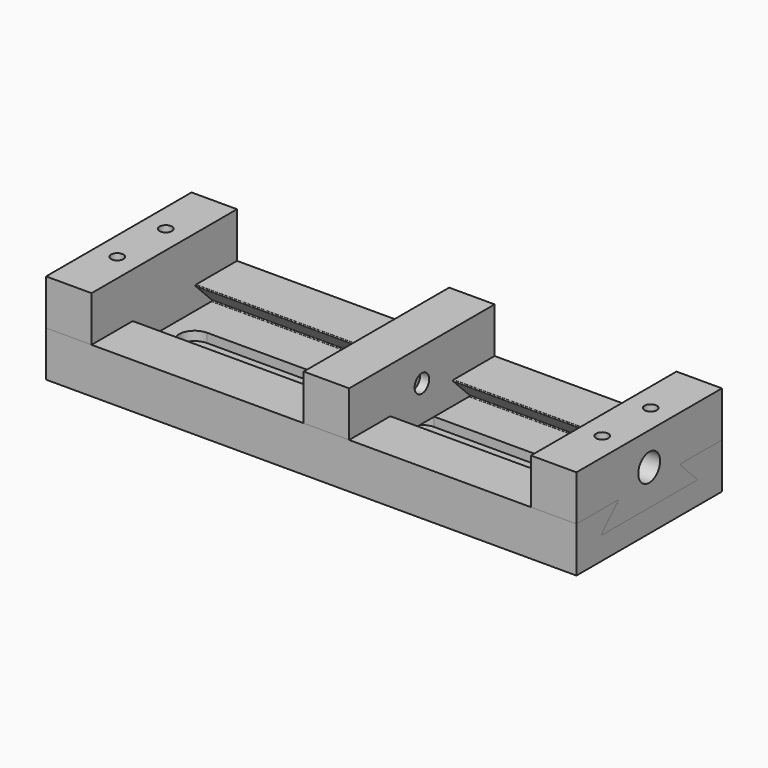
from build123d import *

# Parameters (mm, degrees)
F0_W      = 175
F0_H      = 60
F1_DEPTH  = 15
F3_DEPTH  = 175.001
F4_R      = 0.25
F6_DEPTH  = 15
F7_R      = 4.5
F8_DEPTH  = 175.001
F10_DEPTH = 15
F13_DEPTH = 15
F14_R     = 3
F15_DEPTH = 3
F16_R     = 2.05
F17_DEPTH = 22.5
F18_R     = 2.05
F19_DEPTH = 22.5
F20_R     = 5.25
F20_R_2   = 2.05
F21_DEPTH = 3
F22_R     = 5.25
F22_R_2   = 2.05
F23_DEPTH = 3
F24_R     = 5
F24_R_2   = 2.05
F25_DEPTH = 2.5
F27_DEPTH = 25
F29_DEPTH = 3


with BuildPart() as f1:
    # F0 (on Top) → F1 (new body)
    with BuildSketch(Plane.XY):
        Rectangle(F0_W, F0_H)
    extrude(amount=F1_DEPTH)

    # F2 (on face) → F3 (cut, through all)
    with BuildSketch(Plane.YZ.offset(87.5)):
        Polygon((-12.5, 15), (-20, 7.5), (20, 7.5), (12.5, 15), align=None)
        Polygon((-8.8884221898, 18.6115778102), (-12.5, 15), (12.5, 15), (9.7629078865, 17.7370921135), align=None)
    extrude(amount=-F3_DEPTH, mode=Mode.SUBTRACT)

    # F4
    f4_edges = [f1.edges().sort_by_distance(p)[0] for p in [
        (0, -20, 7.5),
        (0, 20, 7.5),
        (0, 12.5, 15),
        (0, -12.5, 15),
    ]]
    fillet(f4_edges, radius=F4_R)

    # F26 (on face) → F27 (cut)
    with BuildSketch(Plane.XY.offset(7.5)):
        with BuildLine():
            ThreePointArc((-27.5, -2.6), (-24.9, 0), (-27.5, 2.6))
            Line((-27.5, 2.6), (-62.5, 2.6))
            ThreePointArc((-62.5, 2.6), (-65.1, 0), (-62.5, -2.6))
            Line((-62.5, -2.6), (-27.5, -2.6))
        make_face()
        with BuildLine():
            ThreePointArc((12.5, 2.6), (9.9, 0), (12.5, -2.6))
            Line((12.5, -2.6), (47.5, -2.6))
            ThreePointArc((47.5, -2.6), (50.1, 0), (47.5, 2.6))
            Line((47.5, 2.6), (12.5, 2.6))
        make_face()
    extrude(amount=-F27_DEPTH, mode=Mode.SUBTRACT)

    # F28 (on face) → F29 (cut)
    with BuildSketch(Plane.XY.offset(7.5)):
        with BuildLine():
            ThreePointArc((12.5, 5.1), (7.4, 0), (12.5, -5.1))
            Line((12.5, -5.1), (47.5, -5.1))
            ThreePointArc((47.5, -5.1), (52.6, 0), (47.5, 5.1))
            Line((47.5, 5.1), (12.5, 5.1))
        make_face()
        with BuildLine():
            ThreePointArc((-27.5, -5.1), (-22.4, 0), (-27.5, 5.1))
            Line((-27.5, 5.1), (-62.5, 5.1))
            ThreePointArc((-62.5, 5.1), (-67.6, 0), (-62.5, -5.1))
            Line((-62.5, -5.1), (-27.5, -5.1))
        make_face()
    extrude(amount=-F29_DEPTH, mode=Mode.SUBTRACT)


with BuildPart() as f6:
    # F5 (on face) → F6 (new body)
    with BuildSketch(Plane.YZ.offset(87.5)):
        with BuildLine():
            Line((13.1035533906, 15), (30, 15))
            Line((30, 15), (30, 30))
            Line((30, 30), (-30, 30))
            Line((-30, 30), (-30, 15))
            Line((-30, 15), (-13.1035533906, 15))
            ThreePointArc((-13.1035533906, 15), (-12.8725835075, 14.8456708581), (-12.9267766953, 14.5732233047))
            Line((-12.9267766953, 14.5732233047), (-19.5732233047, 7.9267766953))
            ThreePointArc((-19.5732233047, 7.9267766953), (-19.6274164925, 7.6543291419), (-19.3964466094, 7.5))
            Line((-19.3964466094, 7.5), (19.3964466094, 7.5))
            ThreePointArc((19.3964466094, 7.5), (19.6274164925, 7.6543291419), (19.5732233047, 7.9267766953))
            Line((19.5732233047, 7.9267766953), (12.9267766953, 14.5732233047))
            ThreePointArc((12.9267766953, 14.5732233047), (12.8725835075, 14.8456708581), (13.1035533906, 15))
        make_face()
    extrude(amount=-F6_DEPTH)

    # F7 (on face) → F8 (cut, through all)
    with BuildSketch(Plane.YZ.offset(87.5)):
        with Locations((0, 19.25)):
            Circle(F7_R)
    extrude(amount=-F8_DEPTH, mode=Mode.SUBTRACT)

    # F16 (on face) → F17 (cut, through all)
    with BuildSketch(Plane.XY.offset(30)):
        with Locations((80, 10)):
            Circle(F16_R)
        with Locations((80, -10)):
            Circle(F16_R)
    extrude(amount=-F17_DEPTH, mode=Mode.SUBTRACT)

    # F22 (on face) → F23 (cut)
    with BuildSketch(Plane(origin=(0, 0, 7.5), x_dir=(1, 0, 0), z_dir=(0, 0, -1))):
        with Locations((80, 10.0000000002)):
            Circle(F22_R)
        with Locations((80, 10)):
            Circle(F22_R_2, mode=Mode.SUBTRACT)
        with Locations((80, -9.9999999998)):
            Circle(F22_R)
        with Locations((80, -10)):
            Circle(F22_R_2, mode=Mode.SUBTRACT)
    extrude(amount=-F23_DEPTH, mode=Mode.SUBTRACT)


with BuildPart() as f10:
    # F9 (on face) → F10 (new body)
    with BuildSketch(Plane(origin=(-87.5, 0, 0), x_dir=(0, -1, 0), z_dir=(-1, 0, 0))):
        with BuildLine():
            Line((-12.9267766953, 14.5732233047), (-19.5732233047, 7.9267766953))
            ThreePointArc((-19.5732233047, 7.9267766953), (-19.6274164925, 7.6543291419), (-19.3964466094, 7.5))
            Line((-19.3964466094, 7.5), (19.3964466094, 7.5))
            ThreePointArc((19.3964466094, 7.5), (19.6274164925, 7.6543291419), (19.5732233047, 7.9267766953))
            Line((19.5732233047, 7.9267766953), (12.9267766953, 14.5732233047))
            ThreePointArc((12.9267766953, 14.5732233047), (12.8725835075, 14.8456708581), (13.1035533906, 15))
            Line((13.1035533906, 15), (30, 15))
            Line((30, 15), (30, 30))
            Line((30, 30), (-30, 30))
            Line((-30, 30), (-30, 15))
            Line((-30, 15), (-13.1035533906, 15))
            ThreePointArc((-13.1035533906, 15), (-12.8725835075, 14.8456708581), (-12.9267766953, 14.5732233047))
        make_face()
    extrude(amount=-F10_DEPTH)

    # F18 (on face) → F19 (cut, through all)
    with BuildSketch(Plane.XY.offset(30)):
        with Locations((-80, 10)):
            Circle(F18_R)
        with Locations((-80, -10)):
            Circle(F18_R)
    extrude(amount=-F19_DEPTH, mode=Mode.SUBTRACT)

    # F20 (on face) → F21 (cut)
    with BuildSketch(Plane(origin=(0, 0, 7.5), x_dir=(1, 0, 0), z_dir=(0, 0, -1))):
        with Locations((-80, 10.0000000002)):
            Circle(F20_R)
        with Locations((-80, 10)):
            Circle(F20_R_2, mode=Mode.SUBTRACT)
        with Locations((-80, -9.9999999998)):
            Circle(F20_R)
        with Locations((-80, -10)):
            Circle(F20_R_2, mode=Mode.SUBTRACT)
    extrude(amount=-F21_DEPTH, mode=Mode.SUBTRACT)


with BuildPart() as f13:
    # F12 (on offset) → F13 (new body)
    with BuildSketch(Plane(origin=(12.5, 0, 0), x_dir=(0, -1, 0), z_dir=(-1, 0, 0))):
        with BuildLine():
            Line((-12.9267766953, 14.5732233047), (-19.5732233047, 7.9267766953))
            ThreePointArc((-19.5732233047, 7.9267766953), (-19.6274164925, 7.6543291419), (-19.3964466094, 7.5))
            Line((-19.3964466094, 7.5), (19.3964466094, 7.5))
            ThreePointArc((19.3964466094, 7.5), (19.6274164925, 7.6543291419), (19.5732233047, 7.9267766953))
            Line((19.5732233047, 7.9267766953), (12.9267766953, 14.5732233047))
            ThreePointArc((12.9267766953, 14.5732233047), (12.8725835075, 14.8456708581), (13.1035533906, 15))
            Line((13.1035533906, 15), (30, 15))
            Line((30, 15), (30, 30))
            Line((30, 30), (-30, 30))
            Line((-30, 30), (-30, 15))
            Line((-30, 15), (-13.1035533906, 15))
            ThreePointArc((-13.1035533906, 15), (-12.8725835075, 14.8456708581), (-12.9267766953, 14.5732233047))
        make_face()
    extrude(amount=F13_DEPTH)

    # F14 (on face) → F15 (cut)
    with BuildSketch(Plane.YZ.offset(12.5)):
        with Locations((0, 19.25)):
            Circle(F14_R)
    extrude(amount=-F15_DEPTH, mode=Mode.SUBTRACT)


with BuildPart() as f25:
    # F24 (on face) → F25 (new body)
    with BuildSketch(Plane(origin=(0, 0, 10.5), x_dir=(1, 0, 0), z_dir=(0, 0, -1))):
        with Locations((80, 10.0000000002)):
            Circle(F24_R)
        with Locations((80, 10)):
            Circle(F24_R_2, mode=Mode.SUBTRACT)
        with Locations((80, 10)):
            Circle(F24_R_2)
    extrude(amount=F25_DEPTH)


solid = Compound([f1.part, f6.part, f10.part, f13.part, f25.part])
